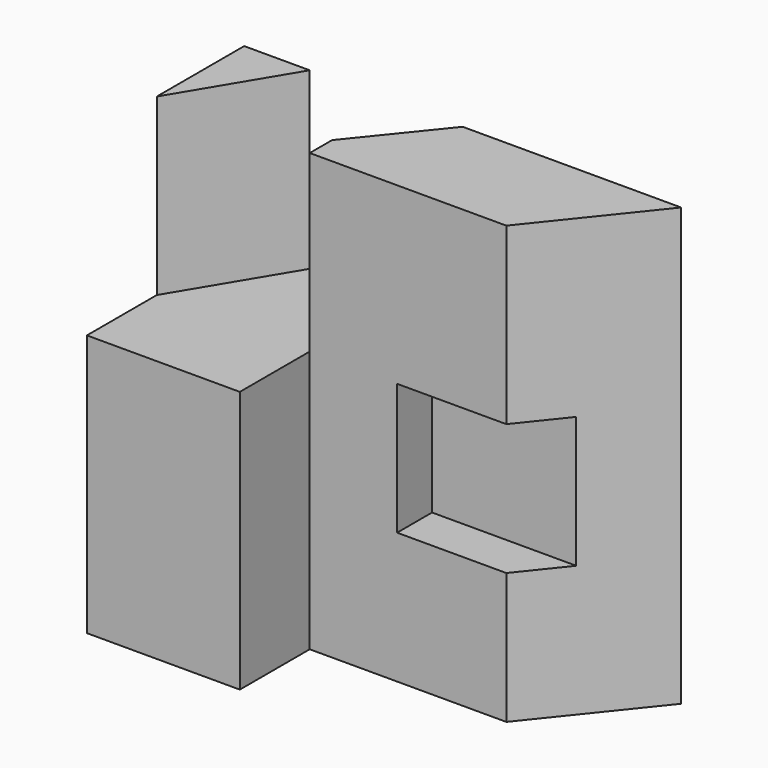
from build123d import *

# Parameters (mm, degrees)
F0_W      = 100
F0_H      = 45
F1_DEPTH  = 100
F2_W      = 65
F2_H      = 20
F3_DEPTH  = 100.001
F6_DEPTH  = 40
F7_W      = 10
F7_H      = 30
F8_DEPTH  = 45
F10_DEPTH = 100.001
F13_DEPTH = 85


with BuildPart() as f1:
    # F0 (on Top) → F1 (new body)
    with BuildSketch(Plane.XY):
        with Locations((50, 22.5)):
            Rectangle(F0_W, F0_H)
    extrude(amount=F1_DEPTH)

    # F2 (on face) → F3 (cut, through all)
    with BuildSketch(Plane.XY.offset(100)):
        with Locations((67.5, 10)):
            Rectangle(F2_W, F2_H)
    extrude(amount=-F3_DEPTH, mode=Mode.SUBTRACT)

    # F5 (on face) → F6 (cut, through all)
    with BuildSketch(Plane.XY.offset(100)):
        Polygon((35, 0), (35, 20), (35, 45), (15, 45), (0, 20), (0, 0), align=None)
    extrude(amount=-F6_DEPTH, mode=Mode.SUBTRACT)

    # F7 (on face) → F8 (cut)
    with BuildSketch(Plane.YZ.offset(100)):
        with Locations((25, 45)):
            Rectangle(F7_W, F7_H)
    extrude(amount=-F8_DEPTH, mode=Mode.SUBTRACT)

    # F9 (on face) → F10 (cut, through all)
    with BuildSketch(Plane.XY.offset(100)):
        Polygon((100, 20), (100, 45), (80, 20), align=None)
    extrude(amount=-F10_DEPTH, mode=Mode.SUBTRACT)

    # F12 (on face) → F13 (cut, through all)
    with BuildSketch(Plane.XY.offset(100)):
        Polygon((50, 45), (35, 45), (35, 26.397135), align=None)
    extrude(amount=-F13_DEPTH, mode=Mode.SUBTRACT)


solid = f1.part
